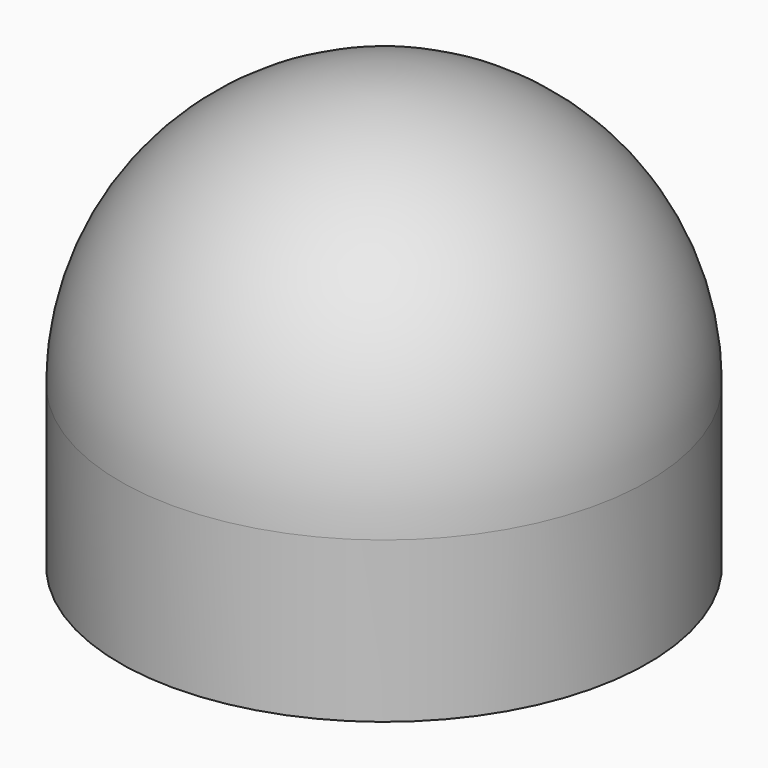
from build123d import *

# Parameters (mm, degrees)
F3_ANGLE = 90


with BuildPart() as f1:
    # F0 (on Top) → F1 (revolve)
    with BuildSketch(Plane.XY):
        with BuildLine():
            Line((0, 8.9), (0, 7.9))
            Line((0, 7.9), (2.4, 7.9))
            Line((2.4, 7.9), (2.4, 6.8))
            Line((2.4, 6.8), (5.4, 6.8))
            Line((5.4, 6.8), (5.4, 7.9))
            ThreePointArc((5.4, 7.9), (10.9861435714, 5.5861435714), (13.3, 0))
            Line((13.3, 0), (14.3, 0))
            ThreePointArc((14.3, 0), (11.6932503526, 6.2932503526), (5.4, 8.9))
            Line((5.4, 8.9), (0, 8.9))
        make_face()
    revolve(axis=Axis((12.5827532146, 0, 0), (1, 0, 0)))


with BuildPart() as f1_1:
    # F3: moved
    add(f1.part.rotate(Axis((0, 0, 0), (0, -1, 0)), F3_ANGLE))


solid = f1_1.part
